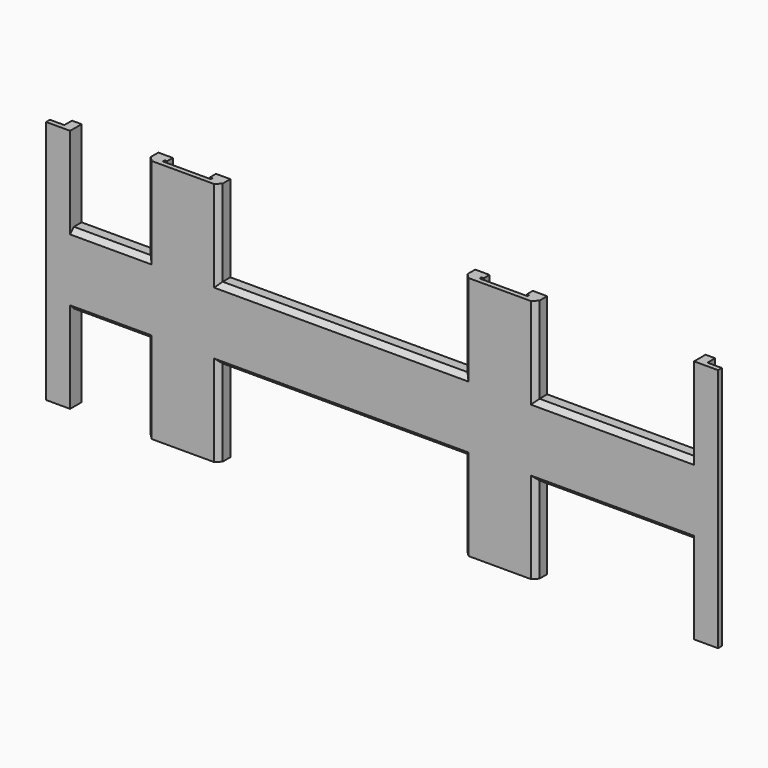
from build123d import *

# Parameters (mm, degrees)
PAD_DEPTH       = 51
PAD001_DEPTH    = 53
PAD002_DEPTH    = 51
POCKET_DEPTH    = 51
POCKET001_DEPTH = 51
PAD003_DEPTH    = 39
PAD004_DEPTH    = 22
SKETCH009_W     = 5
SKETCH009_H     = 3
PAD005_DEPTH    = 51
SKETCH010_W     = 3
SKETCH010_H     = 2
POCKET002_DEPTH = 51
SKETCH011_W     = 5
SKETCH011_H     = 3
PAD006_DEPTH    = 51
SKETCH012_W     = 3
SKETCH012_H     = 2
POCKET003_DEPTH = 51
POCKET004_DEPTH = 140


with BuildPart() as part:
    # Sketch → Pad (new body)
    with BuildSketch(Plane.XY):
        Polygon((1, -3), (0, -2), (0, 0), (15, 0), (15, -2), (14, -3), align=None)
    extrude(amount=PAD_DEPTH)

    # Sketch001 (on Face4 of Pad) → Pad001 (join)
    with BuildSketch(Plane.YZ.offset(14)):
        Polygon((0, 33), (0, 18), (-2, 18), (-3, 19), (-3, 32), (-2, 33), align=None)
    extrude(amount=PAD001_DEPTH)

    # Sketch002 (on Face17 of Pad001) → Pad002 (join)
    with BuildSketch(Plane.XY):
        Polygon((66, 0), (81, 0), (81, -2), (80, -3), (67, -3), (66, -2), align=None)
    extrude(amount=PAD002_DEPTH)

    # Sketch003 (on Face5 of Pad002) → Pocket (cut)
    with BuildSketch(Plane.XY.offset(51)):
        Polygon((3, 0), (3, -1.5), (2.5, -1.5), (2.5, -2), (12.5, -2), (12.5, -1.5), (12, -1.5), (12, 0), align=None)
    extrude(amount=-POCKET_DEPTH, mode=Mode.SUBTRACT)

    # Sketch004 (on Face30 of Pocket) → Pocket001 (cut)
    with BuildSketch(Plane.XY.offset(51)):
        Polygon((78, 0), (69, 0), (69, -1.5), (68.5, -1.5), (68.5, -2), (78.5, -2), (78.5, -1.5), (78, -1.5), align=None)
    extrude(amount=-POCKET001_DEPTH, mode=Mode.SUBTRACT)

    # Sketch006 → Pad003 (join)
    with BuildSketch(Plane.YZ.offset(80)):
        Polygon((0, 33), (-2, 33), (-3, 32), (-3, 19), (-2, 18), (0, 18), align=None)
    extrude(amount=PAD003_DEPTH)

    # Sketch007 (on Face3 of Pad003) → Pad004 (join)
    with BuildSketch(Plane(origin=(1, 0, 0), x_dir=(0, -1, 0), z_dir=(-1, 0, 0))):
        Polygon((0, 33), (2, 33), (3, 32), (3, 19), (2, 18), (0, 18), align=None)
    extrude(amount=PAD004_DEPTH)

    # Sketch009 (on Face61 of Pad004) → Pad005 (join)
    with BuildSketch(Plane(origin=(0, 0, 51), x_dir=(1, 0, 0), z_dir=(0, 0, -1))):
        with Locations((116.5, 1.5)):
            Rectangle(SKETCH009_W, SKETCH009_H)
    extrude(amount=PAD005_DEPTH)

    # Sketch010 (on Face70 of Pad005) → Pocket002 (cut)
    with BuildSketch(Plane(origin=(0, 0, 0), x_dir=(1, 0, 0), z_dir=(0, 0, -1))):
        with Locations((117.5, 1)):
            Rectangle(SKETCH010_W, SKETCH010_H)
    extrude(amount=-POCKET002_DEPTH, mode=Mode.SUBTRACT)

    # Sketch011 (on Face17 of Pocket002) → Pad006 (join)
    with BuildSketch(Plane(origin=(0, 0, 51), x_dir=(1, 0, 0), z_dir=(0, 0, -1))):
        with Locations((-18.5, 1.5)):
            Rectangle(SKETCH011_W, SKETCH011_H)
    extrude(amount=PAD006_DEPTH)

    # Sketch012 (on Face32 of Pad006) → Pocket003 (cut)
    with BuildSketch(Plane(origin=(0, 0, 0), x_dir=(1, 0, 0), z_dir=(0, 0, -1))):
        with Locations((-19.5, 1)):
            Rectangle(SKETCH012_W, SKETCH012_H)
    extrude(amount=-POCKET003_DEPTH, mode=Mode.SUBTRACT)

    # Sketch008 (on Face51 of Pad004) → Pocket004 (cut)
    with BuildSketch(Plane.YZ.offset(119)):
        Polygon((0, 30), (-1.5, 30), (-1.5, 30.5), (-2, 30.5), (-2, 20.5), (-1.5, 20.5), (-1.5, 21), (0, 21), align=None)
    extrude(amount=-POCKET004_DEPTH, mode=Mode.SUBTRACT)


solid = part.part
